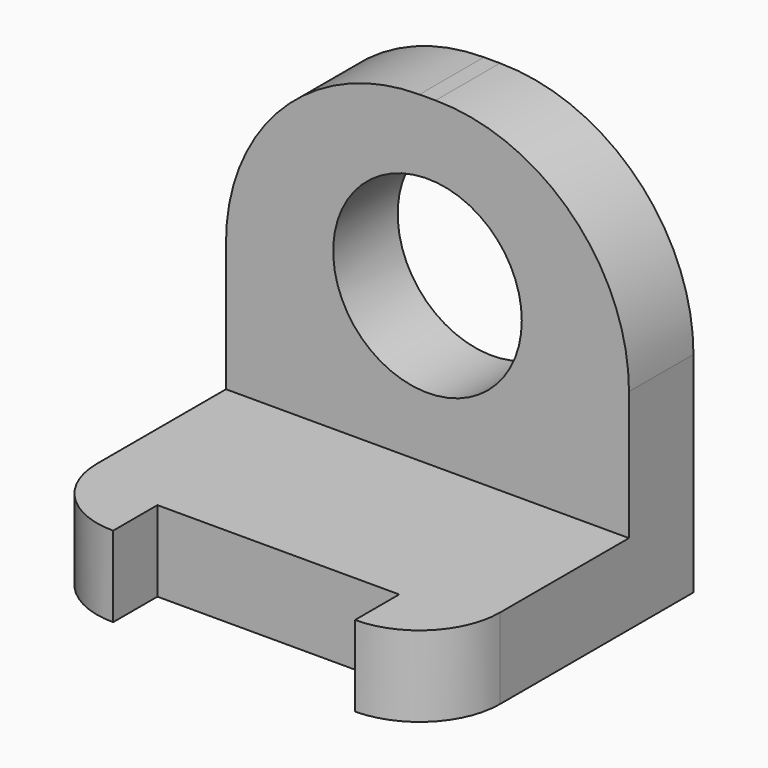
from build123d import *

# Parameters (mm, degrees)
F1_DEPTH = 31.75
F3_DEPTH = 25.4
F4_W     = 38.1
F4_H     = 8.718614
F5_DEPTH = 25.4
F6_R     = 14.857396
F7_DEPTH = 25.4


with BuildPart() as f1:
    # F0 (on Right) → F1 (new body, symmetric)
    with BuildSketch(Plane.YZ):
        Polygon((-50.8, 0), (0, 0), (0, 63.5), (-12.7, 63.5), (-12.7, 12.7), (-50.8, 12.7), align=None)
    extrude(amount=F1_DEPTH, both=True)

    # F2 (on face) → F3 (cut)
    with BuildSketch(Plane.XY.offset(12.7)):
        with BuildLine():
            ThreePointArc((-19.05, -50.8), (-28.030256, -47.080256), (-31.75, -38.1))
            Line((-31.75, -38.1), (-31.75, -50.8))
            Line((-31.75, -50.8), (-19.05, -50.8))
        make_face()
        with BuildLine():
            Line((31.75, -50.8), (31.75, -38.1))
            ThreePointArc((31.75, -38.1), (28.030256, -47.080256), (19.05, -50.8))
            Line((19.05, -50.8), (31.75, -50.8))
        make_face()
    extrude(amount=-F3_DEPTH, mode=Mode.SUBTRACT)

    # F4 (on face) → F5 (cut)
    with BuildSketch(Plane.XY.offset(12.7)):
        with Locations((0, -46.440693)):
            Rectangle(F4_W, F4_H)
    extrude(amount=-F5_DEPTH, mode=Mode.SUBTRACT)

    # F6 (on face) → F7 (cut)
    with BuildSketch(Plane.XZ.offset(12.7)):
        with BuildLine():
            Line((-31.75, 63.5), (-31.75, 33.02))
            ThreePointArc((-31.75, 33.02), (-22.822615, 54.572615), (-1.27, 63.5))
            Line((-1.27, 63.5), (-31.75, 63.5))
        make_face()
        with BuildLine():
            Line((31.75, 63.5), (1.27, 63.5))
            ThreePointArc((1.27, 63.5), (22.822615, 54.572615), (31.75, 33.02))
            Line((31.75, 33.02), (31.75, 63.5))
        make_face()
        with Locations((0, 37.374914)):
            Circle(F6_R)
    extrude(amount=-F7_DEPTH, mode=Mode.SUBTRACT)


solid = f1.part
